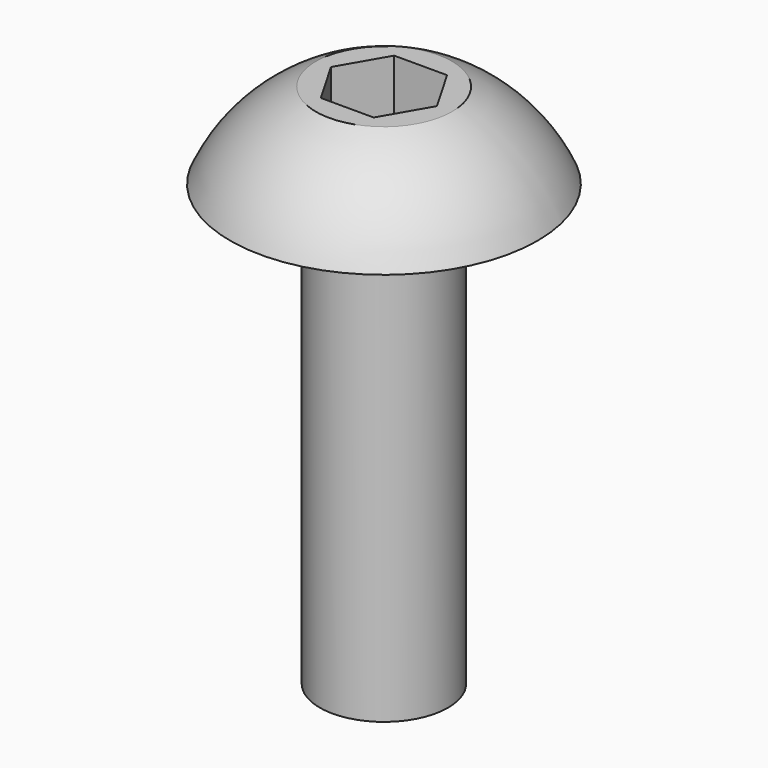
from build123d import *

# Parameters (mm, degrees)
F3_DEPTH = 1.27


with BuildPart() as f1:
    # F0 (on Front) → F1 (revolve)
    with BuildSketch(Plane.XZ):
        with BuildLine():
            Line((1.389063, -9.525), (1.389063, 0))
            Line((1.389063, 0), (3.3274, 0))
            ThreePointArc((3.3274, 0), (2.573122, 1.099922), (1.4732, 1.8542))
            Line((1.4732, 1.8542), (0, 1.8542))
            Line((0, 1.8542), (0, 0))
            Line((0, 0), (0, -9.525))
            Line((0, -9.525), (1.389063, -9.525))
        make_face()
    revolve(axis=Axis((0, 0, -4.7625), (0, 0, -1)))

    # F2 (on face) → F3 (cut)
    with BuildSketch(Plane.XY.offset(1.8542)):
        Polygon((0.57284, 0.992188), (-0.57284, 0.992188), (-1.145679, 0), (-0.57284, -0.992188), (0.57284, -0.992188), (1.145679, 0), align=None)
    extrude(amount=-F3_DEPTH, mode=Mode.SUBTRACT)


solid = f1.part
